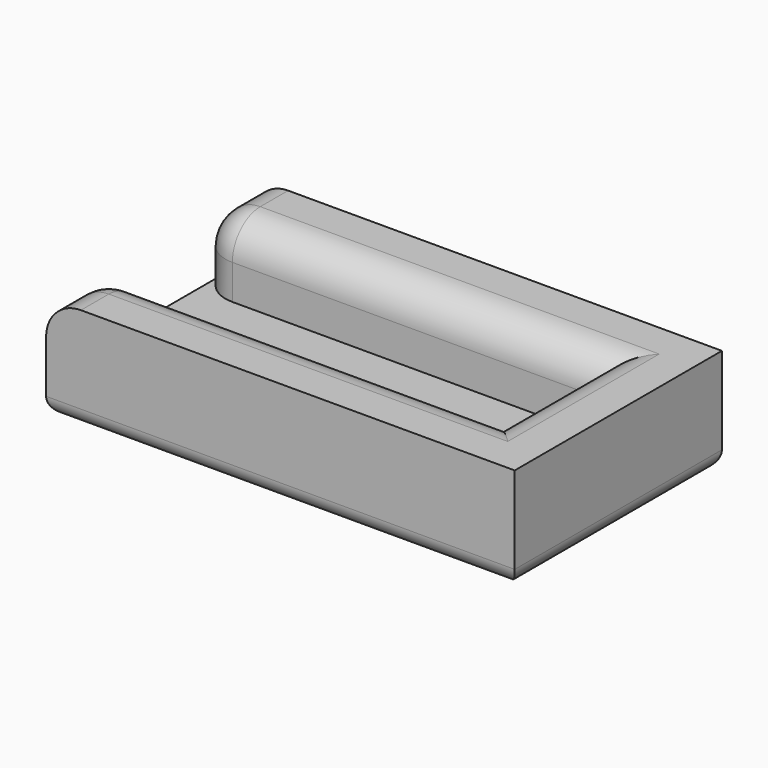
from build123d import *

# Parameters (mm, degrees)
F0_W     = 30
F0_H     = 10.9
F0_W_2   = 6.35
F1_DEPTH = 3.175
F2_DEPTH = 6.35
F3_R     = 3.175
F4_R     = 3.175
F5_R     = 1.5875


with BuildPart() as f1:
    # F0 (on Top) → F1 (new body)
    with BuildSketch(Plane.XY):
        Polygon((-15, 5.45), (15, 5.45), (15, -5.45), (-15, -5.45), (-21.35, -5.45), (-21.35, -11.8), (21.35, -11.8), (21.35, 11.8), (-21.35, 11.8), (-21.35, 5.45), align=None)
        Rectangle(F0_W, F0_H)
        with Locations((-18.175, 0)):
            Rectangle(F0_W_2, F0_H)
    extrude(amount=-F1_DEPTH)

    # F0 (on Top) → F2 (join)
    with BuildSketch(Plane.XY):
        Polygon((-15, 5.45), (15, 5.45), (15, -5.45), (-15, -5.45), (-21.35, -5.45), (-21.35, -11.8), (21.35, -11.8), (21.35, 11.8), (-21.35, 11.8), (-21.35, 5.45), align=None)
    extrude(amount=F2_DEPTH)

    # F3
    f3_edges = [f1.edges().sort_by_distance(p)[0] for p in [
        (-21.35, 5.45, 3.175),
        (-21.35, -5.45, 3.175),
    ]]
    fillet(f3_edges, radius=F3_R)

    # F4
    f4_edges = [f1.edges().sort_by_distance(p)[0] for p in [
        (-1.5875, 5.45, 6.35),
        (-1.5875, -5.45, 6.35),
        (15, 0, 6.35),
    ]]
    fillet(f4_edges, radius=F4_R)

    # F5
    f5_edges = [f1.edges().sort_by_distance(p)[0] for p in [
        (0, -11.8, -3.175),
        (21.35, 0, -3.175),
        (0, 11.8, -3.175),
        (-21.35, 0, -3.175),
    ]]
    fillet(f5_edges, radius=F5_R)


solid = f1.part
